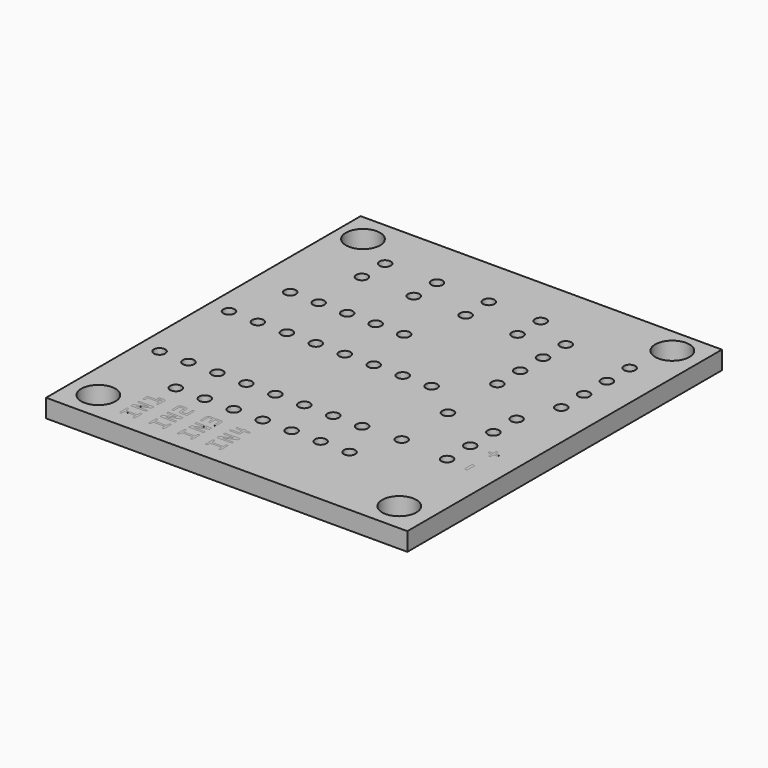
from build123d import *

# Parameters (mm, degrees)
SKETCH_W     = 31.7
SKETCH_H     = 34.5
SKETCH_R     = 1.5
PAD_DEPTH    = 1.6
SKETCH001_R  = 0.5
POCKET_DEPTH = 2
PAD003_DEPTH = 0.0001


with BuildPart() as part:
    # Sketch → Pad (new body)
    with BuildSketch(Plane.XY):
        Rectangle(SKETCH_W, SKETCH_H)
        with Locations((13.1, -14.7)):
            Circle(SKETCH_R, mode=Mode.SUBTRACT)
        with Locations((-13.3, -14.7)):
            Circle(SKETCH_R, mode=Mode.SUBTRACT)
        with Locations((-13.6, 14.7)):
            Circle(SKETCH_R, mode=Mode.SUBTRACT)
        with Locations((13.3, 15)):
            Circle(SKETCH_R, mode=Mode.SUBTRACT)
    extrude(amount=-PAD_DEPTH)

    # Sketch001 → Pocket (cut)
    with BuildSketch(Plane.XY):
        with Locations((-12.564826, 5.420532)):
            Circle(SKETCH001_R)
        with Locations((-10.064826, 5.420532)):
            Circle(SKETCH001_R)
        with Locations((-7.564826, 5.420532)):
            Circle(SKETCH001_R)
        with Locations((-5.064826, 5.420532)):
            Circle(SKETCH001_R)
        with Locations((-2.564826, 5.420532)):
            Circle(SKETCH001_R)
        with Locations((-10.142829, 10.25995)):
            Circle(SKETCH001_R)
        with Locations((-10.142829, 12.79995)):
            Circle(SKETCH001_R)
        with Locations((-5.592829, 12.79995)):
            Circle(SKETCH001_R)
        with Locations((-5.592829, 10.25995)):
            Circle(SKETCH001_R)
        with Locations((-1.042829, 10.25995)):
            Circle(SKETCH001_R)
        with Locations((-1.042829, 12.79995)):
            Circle(SKETCH001_R)
        with Locations((3.507171, 12.79995)):
            Circle(SKETCH001_R)
        with Locations((3.507171, 10.25995)):
            Circle(SKETCH001_R)
        with Locations((7.02339, 11.161276)):
            Circle(SKETCH001_R)
        with Locations((12.62339, 11.161276)):
            Circle(SKETCH001_R)
        with Locations((7.02339, 8.661276)):
            Circle(SKETCH001_R)
        with Locations((12.62339, 8.661276)):
            Circle(SKETCH001_R)
        with Locations((7.02339, 6.161276)):
            Circle(SKETCH001_R)
        with Locations((12.62339, 6.161276)):
            Circle(SKETCH001_R)
        with Locations((12.62339, 3.661276)):
            Circle(SKETCH001_R)
        with Locations((7.02339, 3.661276)):
            Circle(SKETCH001_R)
        with Locations((-9.810193, -10.566936)):
            Circle(SKETCH001_R)
        with Locations((-7.270193, -10.566936)):
            Circle(SKETCH001_R)
        with Locations((-4.730193, -10.566936)):
            Circle(SKETCH001_R)
        with Locations((-2.190193, -10.566936)):
            Circle(SKETCH001_R)
        with Locations((-14.068178, 0.58561)):
            Circle(SKETCH001_R)
        with Locations((-11.528178, 0.58561)):
            Circle(SKETCH001_R)
        with Locations((-8.988178, 0.58561)):
            Circle(SKETCH001_R)
        with Locations((-6.448178, 0.58561)):
            Circle(SKETCH001_R)
        with Locations((-3.908178, 0.58561)):
            Circle(SKETCH001_R)
        with Locations((-1.368178, 0.58561)):
            Circle(SKETCH001_R)
        with Locations((1.171822, 0.58561)):
            Circle(SKETCH001_R)
        with Locations((3.711822, 0.58561)):
            Circle(SKETCH001_R)
        with Locations((-14.068178, -7.03439)):
            Circle(SKETCH001_R)
        with Locations((-11.528178, -7.03439)):
            Circle(SKETCH001_R)
        with Locations((-8.988178, -7.03439)):
            Circle(SKETCH001_R)
        with Locations((-6.448178, -7.03439)):
            Circle(SKETCH001_R)
        with Locations((-3.908178, -7.03439)):
            Circle(SKETCH001_R)
        with Locations((-1.368178, -7.03439)):
            Circle(SKETCH001_R)
        with Locations((1.171822, -7.03439)):
            Circle(SKETCH001_R)
        with Locations((3.711822, -7.03439)):
            Circle(SKETCH001_R)
        with Locations((11.296953, 0.417566)):
            Circle(SKETCH001_R)
        with Locations((11.296953, -2.122434)):
            Circle(SKETCH001_R)
        with Locations((11.296953, -4.662434)):
            Circle(SKETCH001_R)
        with Locations((11.296953, -7.202434)):
            Circle(SKETCH001_R)
        with Locations((7.055358, -1.802605)):
            Circle(SKETCH001_R)
        with Locations((7.055358, -6.882605)):
            Circle(SKETCH001_R)
        with Locations((0.349807, -10.566936)):
            Circle(SKETCH001_R)
        with Locations((2.889807, -10.566936)):
            Circle(SKETCH001_R)
        with Locations((5.429807, -10.566936)):
            Circle(SKETCH001_R)
    extrude(amount=-POCKET_DEPTH, mode=Mode.SUBTRACT)

    # Sketch006 (on Face4 of Pocket) → Pad003 (join)
    with BuildSketch(Plane(origin=(-0.5, -0.7, 0), x_dir=(0, -1, 0), z_dir=(0, 0, 1))):
        with BuildLine():
            add(Edge.make_bspline(
                [(15.131942, -8.805441), (15.131942, -8.8401), (15.10751, -8.865668)],
                knots=[0, 0, 0, 1, 1, 1], degree=2))
            add(Edge.make_bspline(
                [(15.10751, -8.865668), (15.083078, -8.891805), (15.047851, -8.891805)],
                knots=[0, 0, 0, 1, 1, 1], degree=2))
            Line((15.047851, -8.891805), (14.798987, -8.891805))
            Line((14.798987, -8.891805), (14.798987, -9.888396))
            Line((14.798987, -9.888396), (15.047851, -9.888396))
            add(Edge.make_bspline(
                [(15.047851, -9.888396), (15.083078, -9.888396), (15.10751, -9.913964)],
                knots=[0, 0, 0, 1, 1, 1], degree=2))
            add(Edge.make_bspline(
                [(15.10751, -9.913964), (15.131942, -9.9401), (15.131942, -9.976464)],
                knots=[0, 0, 0, 1, 1, 1], degree=2))
            add(Edge.make_bspline(
                [(15.131942, -9.976464), (15.131942, -10.011123), (15.106942, -10.036691)],
                knots=[0, 0, 0, 1, 1, 1], degree=2))
            add(Edge.make_bspline(
                [(15.106942, -10.036691), (15.081374, -10.062828), (15.043874, -10.062828)],
                knots=[0, 0, 0, 1, 1, 1], degree=2))
            Line((15.043874, -10.062828), (14.348987, -10.062828))
            add(Edge.make_bspline(
                [(14.348987, -10.062828), (14.311487, -10.062828), (14.285351, -10.036691)],
                knots=[0, 0, 0, 1, 1, 1], degree=2))
            add(Edge.make_bspline(
                [(14.285351, -10.036691), (14.259215, -10.011123), (14.259215, -9.976464)],
                knots=[0, 0, 0, 1, 1, 1], degree=2))
            add(Edge.make_bspline(
                [(14.259215, -9.976464), (14.259215, -9.9401), (14.286487, -9.913964)],
                knots=[0, 0, 0, 1, 1, 1], degree=2))
            add(Edge.make_bspline(
                [(14.286487, -9.913964), (14.31376, -9.888396), (14.352396, -9.888396)],
                knots=[0, 0, 0, 1, 1, 1], degree=2))
            Line((14.352396, -9.888396), (14.622851, -9.888396))
            Line((14.622851, -9.888396), (14.622851, -8.891805))
            Line((14.622851, -8.891805), (14.352396, -8.891805))
            add(Edge.make_bspline(
                [(14.352396, -8.891805), (14.31376, -8.891805), (14.286487, -8.865668)],
                knots=[0, 0, 0, 1, 1, 1], degree=2))
            add(Edge.make_bspline(
                [(14.286487, -8.865668), (14.259215, -8.8401), (14.259215, -8.805441)],
                knots=[0, 0, 0, 1, 1, 1], degree=2))
            add(Edge.make_bspline(
                [(14.259215, -8.805441), (14.259215, -8.769078), (14.285351, -8.742941)],
                knots=[0, 0, 0, 1, 1, 1], degree=2))
            add(Edge.make_bspline(
                [(14.285351, -8.742941), (14.311487, -8.717373), (14.348987, -8.717373)],
                knots=[0, 0, 0, 1, 1, 1], degree=2))
            Line((14.348987, -8.717373), (15.043874, -8.717373))
            add(Edge.make_bspline(
                [(15.043874, -8.717373), (15.081374, -8.717373), (15.106942, -8.742941)],
                knots=[0, 0, 0, 1, 1, 1], degree=2))
            add(Edge.make_bspline(
                [(15.106942, -8.742941), (15.131942, -8.769078), (15.131942, -8.805441)],
                knots=[0, 0, 0, 1, 1, 1], degree=2))
        make_face()
        with BuildLine():
            Line((13.859215, -8.805441), (13.859215, -10.062828))
            Line((13.859215, -10.062828), (13.627396, -10.062828))
            Line((13.627396, -10.062828), (13.168305, -9.024191))
            Line((13.168305, -9.024191), (13.168305, -9.976464))
            add(Edge.make_bspline(
                [(13.168305, -9.976464), (13.168305, -10.011123), (13.143305, -10.036691)],
                knots=[0, 0, 0, 1, 1, 1], degree=2))
            add(Edge.make_bspline(
                [(13.143305, -10.036691), (13.117737, -10.062828), (13.081374, -10.062828)],
                knots=[0, 0, 0, 1, 1, 1], degree=2))
            add(Edge.make_bspline(
                [(13.081374, -10.062828), (13.044442, -10.062828), (13.018305, -10.036691)],
                knots=[0, 0, 0, 1, 1, 1], degree=2))
            add(Edge.make_bspline(
                [(13.018305, -10.036691), (12.992169, -10.011123), (12.992169, -9.976464)],
                knots=[0, 0, 0, 1, 1, 1], degree=2))
            Line((12.992169, -9.976464), (12.992169, -8.717373))
            Line((12.992169, -8.717373), (13.225692, -8.717373))
            Line((13.225692, -8.717373), (13.683078, -9.7526))
            Line((13.683078, -9.7526), (13.683078, -8.805441))
            add(Edge.make_bspline(
                [(13.683078, -8.805441), (13.683078, -8.769078), (13.709215, -8.742941)],
                knots=[0, 0, 0, 1, 1, 1], degree=2))
            add(Edge.make_bspline(
                [(13.709215, -8.742941), (13.735351, -8.717373), (13.772283, -8.717373)],
                knots=[0, 0, 0, 1, 1, 1], degree=2))
            add(Edge.make_bspline(
                [(13.772283, -8.717373), (13.808646, -8.717373), (13.834215, -8.742941)],
                knots=[0, 0, 0, 1, 1, 1], degree=2))
            add(Edge.make_bspline(
                [(13.834215, -8.742941), (13.859215, -8.769078), (13.859215, -8.805441)],
                knots=[0, 0, 0, 1, 1, 1], degree=2))
        make_face()
        with BuildLine():
            add(Edge.make_bspline(
                [(12.568305, -8.805441), (12.568305, -8.8401), (12.543305, -8.865668)],
                knots=[0, 0, 0, 1, 1, 1], degree=2))
            add(Edge.make_bspline(
                [(12.543305, -8.865668), (12.517737, -8.891805), (12.480805, -8.891805)],
                knots=[0, 0, 0, 1, 1, 1], degree=2))
            Line((12.480805, -8.891805), (12.222851, -8.891805))
            Line((12.222851, -8.891805), (12.222851, -9.888396))
            Line((12.222851, -9.888396), (12.480805, -9.888396))
            add(Edge.make_bspline(
                [(12.480805, -9.888396), (12.517737, -9.888396), (12.543305, -9.913964)],
                knots=[0, 0, 0, 1, 1, 1], degree=2))
            add(Edge.make_bspline(
                [(12.543305, -9.913964), (12.568305, -9.9401), (12.568305, -9.976464)],
                knots=[0, 0, 0, 1, 1, 1], degree=2))
            add(Edge.make_bspline(
                [(12.568305, -9.976464), (12.568305, -10.011123), (12.543305, -10.036691)],
                knots=[0, 0, 0, 1, 1, 1], degree=2))
            add(Edge.make_bspline(
                [(12.543305, -10.036691), (12.517737, -10.062828), (12.480805, -10.062828)],
                knots=[0, 0, 0, 1, 1, 1], degree=2))
            Line((12.480805, -10.062828), (12.046715, -10.062828))
            Line((12.046715, -10.062828), (12.046715, -8.891805))
            Line((12.046715, -8.891805), (11.889896, -8.891805))
            Line((11.889896, -8.891805), (11.889896, -9.243509))
            add(Edge.make_bspline(
                [(11.889896, -9.243509), (11.889896, -9.279873), (11.864896, -9.305441)],
                knots=[0, 0, 0, 1, 1, 1], degree=2))
            add(Edge.make_bspline(
                [(11.864896, -9.305441), (11.839328, -9.331578), (11.802965, -9.331578)],
                knots=[0, 0, 0, 1, 1, 1], degree=2))
            add(Edge.make_bspline(
                [(11.802965, -9.331578), (11.766033, -9.331578), (11.739896, -9.305441)],
                knots=[0, 0, 0, 1, 1, 1], degree=2))
            add(Edge.make_bspline(
                [(11.739896, -9.305441), (11.71376, -9.279873), (11.71376, -9.243509)],
                knots=[0, 0, 0, 1, 1, 1], degree=2))
            Line((11.71376, -9.243509), (11.71376, -8.805441))
            add(Edge.make_bspline(
                [(11.71376, -8.805441), (11.71376, -8.769078), (11.739328, -8.742941)],
                knots=[0, 0, 0, 1, 1, 1], degree=2))
            add(Edge.make_bspline(
                [(11.739328, -8.742941), (11.764896, -8.717373), (11.80126, -8.717373)],
                knots=[0, 0, 0, 1, 1, 1], degree=2))
            Line((11.80126, -8.717373), (12.48251, -8.717373))
            add(Edge.make_bspline(
                [(12.48251, -8.717373), (12.518874, -8.717373), (12.543874, -8.742941)],
                knots=[0, 0, 0, 1, 1, 1], degree=2))
            add(Edge.make_bspline(
                [(12.543874, -8.742941), (12.568305, -8.769078), (12.568305, -8.805441)],
                knots=[0, 0, 0, 1, 1, 1], degree=2))
        make_face()
        with BuildLine():
            add(Edge.make_bspline(
                [(15.131942, -6.255441), (15.131942, -6.2901), (15.10751, -6.315668)],
                knots=[0, 0, 0, 1, 1, 1], degree=2))
            add(Edge.make_bspline(
                [(15.10751, -6.315668), (15.083078, -6.341805), (15.047851, -6.341805)],
                knots=[0, 0, 0, 1, 1, 1], degree=2))
            Line((15.047851, -6.341805), (14.798987, -6.341805))
            Line((14.798987, -6.341805), (14.798987, -7.338396))
            Line((14.798987, -7.338396), (15.047851, -7.338396))
            add(Edge.make_bspline(
                [(15.047851, -7.338396), (15.083078, -7.338396), (15.10751, -7.363964)],
                knots=[0, 0, 0, 1, 1, 1], degree=2))
            add(Edge.make_bspline(
                [(15.10751, -7.363964), (15.131942, -7.3901), (15.131942, -7.426464)],
                knots=[0, 0, 0, 1, 1, 1], degree=2))
            add(Edge.make_bspline(
                [(15.131942, -7.426464), (15.131942, -7.461123), (15.106942, -7.486691)],
                knots=[0, 0, 0, 1, 1, 1], degree=2))
            add(Edge.make_bspline(
                [(15.106942, -7.486691), (15.081374, -7.512828), (15.043874, -7.512828)],
                knots=[0, 0, 0, 1, 1, 1], degree=2))
            Line((15.043874, -7.512828), (14.348987, -7.512828))
            add(Edge.make_bspline(
                [(14.348987, -7.512828), (14.311487, -7.512828), (14.285351, -7.486691)],
                knots=[0, 0, 0, 1, 1, 1], degree=2))
            add(Edge.make_bspline(
                [(14.285351, -7.486691), (14.259215, -7.461123), (14.259215, -7.426464)],
                knots=[0, 0, 0, 1, 1, 1], degree=2))
            add(Edge.make_bspline(
                [(14.259215, -7.426464), (14.259215, -7.3901), (14.286487, -7.363964)],
                knots=[0, 0, 0, 1, 1, 1], degree=2))
            add(Edge.make_bspline(
                [(14.286487, -7.363964), (14.31376, -7.338396), (14.352396, -7.338396)],
                knots=[0, 0, 0, 1, 1, 1], degree=2))
            Line((14.352396, -7.338396), (14.622851, -7.338396))
            Line((14.622851, -7.338396), (14.622851, -6.341805))
            Line((14.622851, -6.341805), (14.352396, -6.341805))
            add(Edge.make_bspline(
                [(14.352396, -6.341805), (14.31376, -6.341805), (14.286487, -6.315668)],
                knots=[0, 0, 0, 1, 1, 1], degree=2))
            add(Edge.make_bspline(
                [(14.286487, -6.315668), (14.259215, -6.2901), (14.259215, -6.255441)],
                knots=[0, 0, 0, 1, 1, 1], degree=2))
            add(Edge.make_bspline(
                [(14.259215, -6.255441), (14.259215, -6.219078), (14.285351, -6.192941)],
                knots=[0, 0, 0, 1, 1, 1], degree=2))
            add(Edge.make_bspline(
                [(14.285351, -6.192941), (14.311487, -6.167373), (14.348987, -6.167373)],
                knots=[0, 0, 0, 1, 1, 1], degree=2))
            Line((14.348987, -6.167373), (15.043874, -6.167373))
            add(Edge.make_bspline(
                [(15.043874, -6.167373), (15.081374, -6.167373), (15.106942, -6.192941)],
                knots=[0, 0, 0, 1, 1, 1], degree=2))
            add(Edge.make_bspline(
                [(15.106942, -6.192941), (15.131942, -6.219078), (15.131942, -6.255441)],
                knots=[0, 0, 0, 1, 1, 1], degree=2))
        make_face()
        with BuildLine():
            Line((13.859215, -6.255441), (13.859215, -7.512828))
            Line((13.859215, -7.512828), (13.627396, -7.512828))
            Line((13.627396, -7.512828), (13.168305, -6.474191))
            Line((13.168305, -6.474191), (13.168305, -7.426464))
            add(Edge.make_bspline(
                [(13.168305, -7.426464), (13.168305, -7.461123), (13.143305, -7.486691)],
                knots=[0, 0, 0, 1, 1, 1], degree=2))
            add(Edge.make_bspline(
                [(13.143305, -7.486691), (13.117737, -7.512828), (13.081374, -7.512828)],
                knots=[0, 0, 0, 1, 1, 1], degree=2))
            add(Edge.make_bspline(
                [(13.081374, -7.512828), (13.044442, -7.512828), (13.018305, -7.486691)],
                knots=[0, 0, 0, 1, 1, 1], degree=2))
            add(Edge.make_bspline(
                [(13.018305, -7.486691), (12.992169, -7.461123), (12.992169, -7.426464)],
                knots=[0, 0, 0, 1, 1, 1], degree=2))
            Line((12.992169, -7.426464), (12.992169, -6.167373))
            Line((12.992169, -6.167373), (13.225692, -6.167373))
            Line((13.225692, -6.167373), (13.683078, -7.2026))
            Line((13.683078, -7.2026), (13.683078, -6.255441))
            add(Edge.make_bspline(
                [(13.683078, -6.255441), (13.683078, -6.219078), (13.709215, -6.192941)],
                knots=[0, 0, 0, 1, 1, 1], degree=2))
            add(Edge.make_bspline(
                [(13.709215, -6.192941), (13.735351, -6.167373), (13.772283, -6.167373)],
                knots=[0, 0, 0, 1, 1, 1], degree=2))
            add(Edge.make_bspline(
                [(13.772283, -6.167373), (13.808646, -6.167373), (13.834215, -6.192941)],
                knots=[0, 0, 0, 1, 1, 1], degree=2))
            add(Edge.make_bspline(
                [(13.834215, -6.192941), (13.859215, -6.219078), (13.859215, -6.255441)],
                knots=[0, 0, 0, 1, 1, 1], degree=2))
        make_face()
        with BuildLine():
            Line((12.586487, -6.167373), (12.586487, -6.757146))
            add(Edge.make_bspline(
                [(12.586487, -6.757146), (12.586487, -6.828168), (12.534783, -6.879305)],
                knots=[0, 0, 0, 1, 1, 1], degree=2))
            add(Edge.make_bspline(
                [(12.534783, -6.879305), (12.48251, -6.931009), (12.410919, -6.931009)],
                knots=[0, 0, 0, 1, 1, 1], degree=2))
            Line((12.410919, -6.931009), (11.895578, -6.931009))
            Line((11.895578, -6.931009), (11.895578, -7.338396))
            Line((11.895578, -7.338396), (12.499555, -7.338396))
            add(Edge.make_bspline(
                [(12.499555, -7.338396), (12.535919, -7.338396), (12.561487, -7.363964)],
                knots=[0, 0, 0, 1, 1, 1], degree=2))
            add(Edge.make_bspline(
                [(12.561487, -7.363964), (12.586487, -7.3901), (12.586487, -7.426464)],
                knots=[0, 0, 0, 1, 1, 1], degree=2))
            add(Edge.make_bspline(
                [(12.586487, -7.426464), (12.586487, -7.461123), (12.561487, -7.486691)],
                knots=[0, 0, 0, 1, 1, 1], degree=2))
            add(Edge.make_bspline(
                [(12.561487, -7.486691), (12.535919, -7.512828), (12.498987, -7.512828)],
                knots=[0, 0, 0, 1, 1, 1], degree=2))
            Line((12.498987, -7.512828), (11.89501, -7.512828))
            add(Edge.make_bspline(
                [(11.89501, -7.512828), (11.825692, -7.512828), (11.772851, -7.461123)],
                knots=[0, 0, 0, 1, 1, 1], degree=2))
            add(Edge.make_bspline(
                [(11.772851, -7.461123), (11.719442, -7.409418), (11.719442, -7.339532)],
                knots=[0, 0, 0, 1, 1, 1], degree=2))
            Line((11.719442, -7.339532), (11.719442, -6.928737))
            add(Edge.make_bspline(
                [(11.719442, -6.928737), (11.719442, -6.859987), (11.771715, -6.808282)],
                knots=[0, 0, 0, 1, 1, 1], degree=2))
            add(Edge.make_bspline(
                [(11.771715, -6.808282), (11.823419, -6.756578), (11.89501, -6.756578)],
                knots=[0, 0, 0, 1, 1, 1], degree=2))
            Line((11.89501, -6.756578), (12.410351, -6.756578))
            Line((12.410351, -6.756578), (12.410351, -6.341805))
            Line((12.410351, -6.341805), (11.808078, -6.341805))
            add(Edge.make_bspline(
                [(11.808078, -6.341805), (11.771715, -6.341805), (11.745578, -6.315668)],
                knots=[0, 0, 0, 1, 1, 1], degree=2))
            add(Edge.make_bspline(
                [(11.745578, -6.315668), (11.719442, -6.2901), (11.719442, -6.255441)],
                knots=[0, 0, 0, 1, 1, 1], degree=2))
            add(Edge.make_bspline(
                [(11.719442, -6.255441), (11.719442, -6.219078), (11.745578, -6.192941)],
                knots=[0, 0, 0, 1, 1, 1], degree=2))
            add(Edge.make_bspline(
                [(11.745578, -6.192941), (11.771715, -6.167373), (11.808646, -6.167373)],
                knots=[0, 0, 0, 1, 1, 1], degree=2))
            Line((11.808646, -6.167373), (12.586487, -6.167373))
        make_face()
        with BuildLine():
            add(Edge.make_bspline(
                [(15.131942, -1.265441), (15.131942, -1.3001), (15.10751, -1.325668)],
                knots=[0, 0, 0, 1, 1, 1], degree=2))
            add(Edge.make_bspline(
                [(15.10751, -1.325668), (15.083078, -1.351805), (15.047851, -1.351805)],
                knots=[0, 0, 0, 1, 1, 1], degree=2))
            Line((15.047851, -1.351805), (14.798987, -1.351805))
            Line((14.798987, -1.351805), (14.798987, -2.348396))
            Line((14.798987, -2.348396), (15.047851, -2.348396))
            add(Edge.make_bspline(
                [(15.047851, -2.348396), (15.083078, -2.348396), (15.10751, -2.373964)],
                knots=[0, 0, 0, 1, 1, 1], degree=2))
            add(Edge.make_bspline(
                [(15.10751, -2.373964), (15.131942, -2.4001), (15.131942, -2.436464)],
                knots=[0, 0, 0, 1, 1, 1], degree=2))
            add(Edge.make_bspline(
                [(15.131942, -2.436464), (15.131942, -2.471123), (15.106942, -2.496691)],
                knots=[0, 0, 0, 1, 1, 1], degree=2))
            add(Edge.make_bspline(
                [(15.106942, -2.496691), (15.081374, -2.522828), (15.043874, -2.522828)],
                knots=[0, 0, 0, 1, 1, 1], degree=2))
            Line((15.043874, -2.522828), (14.348987, -2.522828))
            add(Edge.make_bspline(
                [(14.348987, -2.522828), (14.311487, -2.522828), (14.285351, -2.496691)],
                knots=[0, 0, 0, 1, 1, 1], degree=2))
            add(Edge.make_bspline(
                [(14.285351, -2.496691), (14.259215, -2.471123), (14.259215, -2.436464)],
                knots=[0, 0, 0, 1, 1, 1], degree=2))
            add(Edge.make_bspline(
                [(14.259215, -2.436464), (14.259215, -2.4001), (14.286487, -2.373964)],
                knots=[0, 0, 0, 1, 1, 1], degree=2))
            add(Edge.make_bspline(
                [(14.286487, -2.373964), (14.31376, -2.348396), (14.352396, -2.348396)],
                knots=[0, 0, 0, 1, 1, 1], degree=2))
            Line((14.352396, -2.348396), (14.622851, -2.348396))
            Line((14.622851, -2.348396), (14.622851, -1.351805))
            Line((14.622851, -1.351805), (14.352396, -1.351805))
            add(Edge.make_bspline(
                [(14.352396, -1.351805), (14.31376, -1.351805), (14.286487, -1.325668)],
                knots=[0, 0, 0, 1, 1, 1], degree=2))
            add(Edge.make_bspline(
                [(14.286487, -1.325668), (14.259215, -1.3001), (14.259215, -1.265441)],
                knots=[0, 0, 0, 1, 1, 1], degree=2))
            add(Edge.make_bspline(
                [(14.259215, -1.265441), (14.259215, -1.229078), (14.285351, -1.202941)],
                knots=[0, 0, 0, 1, 1, 1], degree=2))
            add(Edge.make_bspline(
                [(14.285351, -1.202941), (14.311487, -1.177373), (14.348987, -1.177373)],
                knots=[0, 0, 0, 1, 1, 1], degree=2))
            Line((14.348987, -1.177373), (15.043874, -1.177373))
            add(Edge.make_bspline(
                [(15.043874, -1.177373), (15.081374, -1.177373), (15.106942, -1.202941)],
                knots=[0, 0, 0, 1, 1, 1], degree=2))
            add(Edge.make_bspline(
                [(15.106942, -1.202941), (15.131942, -1.229078), (15.131942, -1.265441)],
                knots=[0, 0, 0, 1, 1, 1], degree=2))
        make_face()
        with BuildLine():
            Line((13.859215, -1.265441), (13.859215, -2.522828))
            Line((13.859215, -2.522828), (13.627396, -2.522828))
            Line((13.627396, -2.522828), (13.168305, -1.484191))
            Line((13.168305, -1.484191), (13.168305, -2.436464))
            add(Edge.make_bspline(
                [(13.168305, -2.436464), (13.168305, -2.471123), (13.143305, -2.496691)],
                knots=[0, 0, 0, 1, 1, 1], degree=2))
            add(Edge.make_bspline(
                [(13.143305, -2.496691), (13.117737, -2.522828), (13.081374, -2.522828)],
                knots=[0, 0, 0, 1, 1, 1], degree=2))
            add(Edge.make_bspline(
                [(13.081374, -2.522828), (13.044442, -2.522828), (13.018305, -2.496691)],
                knots=[0, 0, 0, 1, 1, 1], degree=2))
            add(Edge.make_bspline(
                [(13.018305, -2.496691), (12.992169, -2.471123), (12.992169, -2.436464)],
                knots=[0, 0, 0, 1, 1, 1], degree=2))
            Line((12.992169, -2.436464), (12.992169, -1.177373))
            Line((12.992169, -1.177373), (13.225692, -1.177373))
            Line((13.225692, -1.177373), (13.683078, -2.2126))
            Line((13.683078, -2.2126), (13.683078, -1.265441))
            add(Edge.make_bspline(
                [(13.683078, -1.265441), (13.683078, -1.229078), (13.709215, -1.202941)],
                knots=[0, 0, 0, 1, 1, 1], degree=2))
            add(Edge.make_bspline(
                [(13.709215, -1.202941), (13.735351, -1.177373), (13.772283, -1.177373)],
                knots=[0, 0, 0, 1, 1, 1], degree=2))
            add(Edge.make_bspline(
                [(13.772283, -1.177373), (13.808646, -1.177373), (13.834215, -1.202941)],
                knots=[0, 0, 0, 1, 1, 1], degree=2))
            add(Edge.make_bspline(
                [(13.834215, -1.202941), (13.859215, -1.229078), (13.859215, -1.265441)],
                knots=[0, 0, 0, 1, 1, 1], degree=2))
        make_face()
        with BuildLine():
            Line((12.51376, -1.621123), (12.51376, -2.437032))
            add(Edge.make_bspline(
                [(12.51376, -2.437032), (12.51376, -2.471691), (12.487624, -2.497259)],
                knots=[0, 0, 0, 1, 1, 1], degree=2))
            add(Edge.make_bspline(
                [(12.487624, -2.497259), (12.461487, -2.522828), (12.425124, -2.522828)],
                knots=[0, 0, 0, 1, 1, 1], degree=2))
            add(Edge.make_bspline(
                [(12.425124, -2.522828), (12.388192, -2.522828), (12.363192, -2.497259)],
                knots=[0, 0, 0, 1, 1, 1], degree=2))
            add(Edge.make_bspline(
                [(12.363192, -2.497259), (12.337624, -2.471691), (12.337624, -2.437032)],
                knots=[0, 0, 0, 1, 1, 1], degree=2))
            Line((12.337624, -2.437032), (12.337624, -1.795555))
            Line((12.337624, -1.795555), (11.998987, -1.795555))
            Line((11.998987, -1.795555), (11.998987, -2.291578))
            add(Edge.make_bspline(
                [(11.998987, -2.291578), (11.998987, -2.327941), (11.972851, -2.352373)],
                knots=[0, 0, 0, 1, 1, 1], degree=2))
            add(Edge.make_bspline(
                [(11.972851, -2.352373), (11.946715, -2.377373), (11.910351, -2.377373)],
                knots=[0, 0, 0, 1, 1, 1], degree=2))
            add(Edge.make_bspline(
                [(11.910351, -2.377373), (11.875692, -2.377373), (11.849555, -2.352373)],
                knots=[0, 0, 0, 1, 1, 1], degree=2))
            add(Edge.make_bspline(
                [(11.849555, -2.352373), (11.822851, -2.327941), (11.822851, -2.291578)],
                knots=[0, 0, 0, 1, 1, 1], degree=2))
            Line((11.822851, -2.291578), (11.822851, -1.795555))
            add(Edge.make_bspline(
                [(11.822851, -1.795555), (11.784783, -1.795555), (11.758646, -1.769418)],
                knots=[0, 0, 0, 1, 1, 1], degree=2))
            add(Edge.make_bspline(
                [(11.758646, -1.769418), (11.731942, -1.74385), (11.731942, -1.707487)],
                knots=[0, 0, 0, 1, 1, 1], degree=2))
            add(Edge.make_bspline(
                [(11.731942, -1.707487), (11.731942, -1.671123), (11.758646, -1.646123)],
                knots=[0, 0, 0, 1, 1, 1], degree=2))
            add(Edge.make_bspline(
                [(11.758646, -1.646123), (11.784783, -1.621123), (11.822851, -1.621123)],
                knots=[0, 0, 0, 1, 1, 1], degree=2))
            Line((11.822851, -1.621123), (11.822851, -1.266009))
            add(Edge.make_bspline(
                [(11.822851, -1.266009), (11.822851, -1.229646), (11.849555, -1.203509)],
                knots=[0, 0, 0, 1, 1, 1], degree=2))
            add(Edge.make_bspline(
                [(11.849555, -1.203509), (11.875692, -1.177373), (11.910351, -1.177373)],
                knots=[0, 0, 0, 1, 1, 1], degree=2))
            add(Edge.make_bspline(
                [(11.910351, -1.177373), (11.946715, -1.177373), (11.972851, -1.203509)],
                knots=[0, 0, 0, 1, 1, 1], degree=2))
            add(Edge.make_bspline(
                [(11.972851, -1.203509), (11.998987, -1.229646), (11.998987, -1.266009)],
                knots=[0, 0, 0, 1, 1, 1], degree=2))
            Line((11.998987, -1.266009), (11.998987, -1.621123))
            Line((11.998987, -1.621123), (12.51376, -1.621123))
        make_face()
        with BuildLine():
            add(Edge.make_bspline(
                [(15.131942, -3.755441), (15.131942, -3.7901), (15.10751, -3.815668)],
                knots=[0, 0, 0, 1, 1, 1], degree=2))
            add(Edge.make_bspline(
                [(15.10751, -3.815668), (15.083078, -3.841805), (15.047851, -3.841805)],
                knots=[0, 0, 0, 1, 1, 1], degree=2))
            Line((15.047851, -3.841805), (14.798987, -3.841805))
            Line((14.798987, -3.841805), (14.798987, -4.838396))
            Line((14.798987, -4.838396), (15.047851, -4.838396))
            add(Edge.make_bspline(
                [(15.047851, -4.838396), (15.083078, -4.838396), (15.10751, -4.863964)],
                knots=[0, 0, 0, 1, 1, 1], degree=2))
            add(Edge.make_bspline(
                [(15.10751, -4.863964), (15.131942, -4.8901), (15.131942, -4.926464)],
                knots=[0, 0, 0, 1, 1, 1], degree=2))
            add(Edge.make_bspline(
                [(15.131942, -4.926464), (15.131942, -4.961123), (15.106942, -4.986691)],
                knots=[0, 0, 0, 1, 1, 1], degree=2))
            add(Edge.make_bspline(
                [(15.106942, -4.986691), (15.081374, -5.012828), (15.043874, -5.012828)],
                knots=[0, 0, 0, 1, 1, 1], degree=2))
            Line((15.043874, -5.012828), (14.348987, -5.012828))
            add(Edge.make_bspline(
                [(14.348987, -5.012828), (14.311487, -5.012828), (14.285351, -4.986691)],
                knots=[0, 0, 0, 1, 1, 1], degree=2))
            add(Edge.make_bspline(
                [(14.285351, -4.986691), (14.259215, -4.961123), (14.259215, -4.926464)],
                knots=[0, 0, 0, 1, 1, 1], degree=2))
            add(Edge.make_bspline(
                [(14.259215, -4.926464), (14.259215, -4.8901), (14.286487, -4.863964)],
                knots=[0, 0, 0, 1, 1, 1], degree=2))
            add(Edge.make_bspline(
                [(14.286487, -4.863964), (14.31376, -4.838396), (14.352396, -4.838396)],
                knots=[0, 0, 0, 1, 1, 1], degree=2))
            Line((14.352396, -4.838396), (14.622851, -4.838396))
            Line((14.622851, -4.838396), (14.622851, -3.841805))
            Line((14.622851, -3.841805), (14.352396, -3.841805))
            add(Edge.make_bspline(
                [(14.352396, -3.841805), (14.31376, -3.841805), (14.286487, -3.815668)],
                knots=[0, 0, 0, 1, 1, 1], degree=2))
            add(Edge.make_bspline(
                [(14.286487, -3.815668), (14.259215, -3.7901), (14.259215, -3.755441)],
                knots=[0, 0, 0, 1, 1, 1], degree=2))
            add(Edge.make_bspline(
                [(14.259215, -3.755441), (14.259215, -3.719078), (14.285351, -3.692941)],
                knots=[0, 0, 0, 1, 1, 1], degree=2))
            add(Edge.make_bspline(
                [(14.285351, -3.692941), (14.311487, -3.667373), (14.348987, -3.667373)],
                knots=[0, 0, 0, 1, 1, 1], degree=2))
            Line((14.348987, -3.667373), (15.043874, -3.667373))
            add(Edge.make_bspline(
                [(15.043874, -3.667373), (15.081374, -3.667373), (15.106942, -3.692941)],
                knots=[0, 0, 0, 1, 1, 1], degree=2))
            add(Edge.make_bspline(
                [(15.106942, -3.692941), (15.131942, -3.719078), (15.131942, -3.755441)],
                knots=[0, 0, 0, 1, 1, 1], degree=2))
        make_face()
        with BuildLine():
            Line((13.859215, -3.755441), (13.859215, -5.012828))
            Line((13.859215, -5.012828), (13.627396, -5.012828))
            Line((13.627396, -5.012828), (13.168305, -3.974191))
            Line((13.168305, -3.974191), (13.168305, -4.926464))
            add(Edge.make_bspline(
                [(13.168305, -4.926464), (13.168305, -4.961123), (13.143305, -4.986691)],
                knots=[0, 0, 0, 1, 1, 1], degree=2))
            add(Edge.make_bspline(
                [(13.143305, -4.986691), (13.117737, -5.012828), (13.081374, -5.012828)],
                knots=[0, 0, 0, 1, 1, 1], degree=2))
            add(Edge.make_bspline(
                [(13.081374, -5.012828), (13.044442, -5.012828), (13.018305, -4.986691)],
                knots=[0, 0, 0, 1, 1, 1], degree=2))
            add(Edge.make_bspline(
                [(13.018305, -4.986691), (12.992169, -4.961123), (12.992169, -4.926464)],
                knots=[0, 0, 0, 1, 1, 1], degree=2))
            Line((12.992169, -4.926464), (12.992169, -3.667373))
            Line((12.992169, -3.667373), (13.225692, -3.667373))
            Line((13.225692, -3.667373), (13.683078, -4.7026))
            Line((13.683078, -4.7026), (13.683078, -3.755441))
            add(Edge.make_bspline(
                [(13.683078, -3.755441), (13.683078, -3.719078), (13.709215, -3.692941)],
                knots=[0, 0, 0, 1, 1, 1], degree=2))
            add(Edge.make_bspline(
                [(13.709215, -3.692941), (13.735351, -3.667373), (13.772283, -3.667373)],
                knots=[0, 0, 0, 1, 1, 1], degree=2))
            add(Edge.make_bspline(
                [(13.772283, -3.667373), (13.808646, -3.667373), (13.834215, -3.692941)],
                knots=[0, 0, 0, 1, 1, 1], degree=2))
            add(Edge.make_bspline(
                [(13.834215, -3.692941), (13.859215, -3.719078), (13.859215, -3.755441)],
                knots=[0, 0, 0, 1, 1, 1], degree=2))
        make_face()
        with BuildLine():
            add(Edge.make_bspline(
                [(12.586487, -3.755441), (12.586487, -3.7901), (12.561487, -3.815668)],
                knots=[0, 0, 0, 1, 1, 1], degree=2))
            add(Edge.make_bspline(
                [(12.561487, -3.815668), (12.535919, -3.841805), (12.499555, -3.841805)],
                knots=[0, 0, 0, 1, 1, 1], degree=2))
            Line((12.499555, -3.841805), (11.895578, -3.841805))
            Line((11.895578, -3.841805), (11.895578, -4.167941))
            add(Edge.make_bspline(
                [(11.895578, -4.167941), (11.895578, -4.203168), (11.922851, -4.229873)],
                knots=[0, 0, 0, 1, 1, 1], degree=2))
            add(Edge.make_bspline(
                [(11.922851, -4.229873), (11.950124, -4.256578), (11.984215, -4.256578)],
                knots=[0, 0, 0, 1, 1, 1], degree=2))
            Line((11.984215, -4.256578), (12.327396, -4.256578))
            add(Edge.make_bspline(
                [(12.327396, -4.256578), (12.36376, -4.256578), (12.389328, -4.281578)],
                knots=[0, 0, 0, 1, 1, 1], degree=2))
            add(Edge.make_bspline(
                [(12.389328, -4.281578), (12.414328, -4.307146), (12.414328, -4.342941)],
                knots=[0, 0, 0, 1, 1, 1], degree=2))
            add(Edge.make_bspline(
                [(12.414328, -4.342941), (12.414328, -4.378737), (12.389328, -4.404873)],
                knots=[0, 0, 0, 1, 1, 1], degree=2))
            add(Edge.make_bspline(
                [(12.389328, -4.404873), (12.36376, -4.431009), (12.327396, -4.431009)],
                knots=[0, 0, 0, 1, 1, 1], degree=2))
            Line((12.327396, -4.431009), (11.984215, -4.431009))
            add(Edge.make_bspline(
                [(11.984215, -4.431009), (11.947851, -4.431009), (11.921715, -4.456578)],
                knots=[0, 0, 0, 1, 1, 1], degree=2))
            add(Edge.make_bspline(
                [(11.921715, -4.456578), (11.895578, -4.482146), (11.895578, -4.516805)],
                knots=[0, 0, 0, 1, 1, 1], degree=2))
            Line((11.895578, -4.516805), (11.895578, -4.838396))
            Line((11.895578, -4.838396), (12.499555, -4.838396))
            add(Edge.make_bspline(
                [(12.499555, -4.838396), (12.535919, -4.838396), (12.561487, -4.863964)],
                knots=[0, 0, 0, 1, 1, 1], degree=2))
            add(Edge.make_bspline(
                [(12.561487, -4.863964), (12.586487, -4.8901), (12.586487, -4.926464)],
                knots=[0, 0, 0, 1, 1, 1], degree=2))
            add(Edge.make_bspline(
                [(12.586487, -4.926464), (12.586487, -4.961123), (12.561487, -4.986691)],
                knots=[0, 0, 0, 1, 1, 1], degree=2))
            add(Edge.make_bspline(
                [(12.561487, -4.986691), (12.535919, -5.012828), (12.498987, -5.012828)],
                knots=[0, 0, 0, 1, 1, 1], degree=2))
            Line((12.498987, -5.012828), (11.89501, -5.012828))
            add(Edge.make_bspline(
                [(11.89501, -5.012828), (11.825692, -5.012828), (11.772851, -4.961123)],
                knots=[0, 0, 0, 1, 1, 1], degree=2))
            add(Edge.make_bspline(
                [(11.772851, -4.961123), (11.719442, -4.909418), (11.719442, -4.839532)],
                knots=[0, 0, 0, 1, 1, 1], degree=2))
            Line((11.719442, -4.839532), (11.719442, -4.516805))
            add(Edge.make_bspline(
                [(11.719442, -4.516805), (11.719442, -4.416805), (11.789328, -4.342941)],
                knots=[0, 0, 0, 1, 1, 1], degree=2))
            add(Edge.make_bspline(
                [(11.789328, -4.342941), (11.719442, -4.269078), (11.719442, -4.167941)],
                knots=[0, 0, 0, 1, 1, 1], degree=2))
            Line((11.719442, -4.167941), (11.719442, -3.842373))
            add(Edge.make_bspline(
                [(11.719442, -3.842373), (11.719442, -3.77135), (11.772851, -3.719078)],
                knots=[0, 0, 0, 1, 1, 1], degree=2))
            add(Edge.make_bspline(
                [(11.772851, -3.719078), (11.825692, -3.667373), (11.89501, -3.667373)],
                knots=[0, 0, 0, 1, 1, 1], degree=2))
            Line((11.89501, -3.667373), (12.498987, -3.667373))
            add(Edge.make_bspline(
                [(12.498987, -3.667373), (12.535919, -3.667373), (12.561487, -3.692941)],
                knots=[0, 0, 0, 1, 1, 1], degree=2))
            add(Edge.make_bspline(
                [(12.561487, -3.692941), (12.586487, -3.719078), (12.586487, -3.755441)],
                knots=[0, 0, 0, 1, 1, 1], degree=2))
        make_face()
        with BuildLine():
            add(Edge.make_bspline(
                [(3.528897, 13.740567), (3.504465, 13.766135), (3.504465, 13.80193)],
                knots=[0, 0, 0, 1, 1, 1], degree=2))
            add(Edge.make_bspline(
                [(3.504465, 13.80193), (3.504465, 13.837726), (3.528897, 13.863862)],
                knots=[0, 0, 0, 1, 1, 1], degree=2))
            add(Edge.make_bspline(
                [(3.528897, 13.863862), (3.553329, 13.889998), (3.588556, 13.889998)],
                knots=[0, 0, 0, 1, 1, 1], degree=2))
            Line((3.588556, 13.889998), (3.83742, 13.889998))
            Line((3.83742, 13.889998), (3.83742, 14.161589))
            add(Edge.make_bspline(
                [(3.83742, 14.161589), (3.83742, 14.198521), (3.863556, 14.225794)],
                knots=[0, 0, 0, 1, 1, 1], degree=2))
            add(Edge.make_bspline(
                [(3.863556, 14.225794), (3.890261, 14.253635), (3.926056, 14.253635)],
                knots=[0, 0, 0, 1, 1, 1], degree=2))
            add(Edge.make_bspline(
                [(3.926056, 14.253635), (3.961283, 14.253635), (3.98742, 14.225794)],
                knots=[0, 0, 0, 1, 1, 1], degree=2))
            add(Edge.make_bspline(
                [(3.98742, 14.225794), (4.013556, 14.198521), (4.013556, 14.161589)],
                knots=[0, 0, 0, 1, 1, 1], degree=2))
            Line((4.013556, 14.161589), (4.013556, 13.889998))
            Line((4.013556, 13.889998), (4.284011, 13.889998))
            add(Edge.make_bspline(
                [(4.284011, 13.889998), (4.322647, 13.889998), (4.34992, 13.863862)],
                knots=[0, 0, 0, 1, 1, 1], degree=2))
            add(Edge.make_bspline(
                [(4.34992, 13.863862), (4.377192, 13.837726), (4.377192, 13.80193)],
                knots=[0, 0, 0, 1, 1, 1], degree=2))
            add(Edge.make_bspline(
                [(4.377192, 13.80193), (4.377192, 13.766135), (4.34992, 13.740567)],
                knots=[0, 0, 0, 1, 1, 1], degree=2))
            add(Edge.make_bspline(
                [(4.34992, 13.740567), (4.322647, 13.715567), (4.284011, 13.715567)],
                knots=[0, 0, 0, 1, 1, 1], degree=2))
            Line((4.284011, 13.715567), (4.013556, 13.715567))
            Line((4.013556, 13.715567), (4.013556, 13.466703))
            add(Edge.make_bspline(
                [(4.013556, 13.466703), (4.013556, 13.431476), (3.98742, 13.405907)],
                knots=[0, 0, 0, 1, 1, 1], degree=2))
            add(Edge.make_bspline(
                [(3.98742, 13.405907), (3.961283, 13.380907), (3.926056, 13.380907)],
                knots=[0, 0, 0, 1, 1, 1], degree=2))
            add(Edge.make_bspline(
                [(3.926056, 13.380907), (3.890261, 13.380907), (3.863556, 13.405907)],
                knots=[0, 0, 0, 1, 1, 1], degree=2))
            add(Edge.make_bspline(
                [(3.863556, 13.405907), (3.83742, 13.431476), (3.83742, 13.466703)],
                knots=[0, 0, 0, 1, 1, 1], degree=2))
            Line((3.83742, 13.466703), (3.83742, 13.715567))
            Line((3.83742, 13.715567), (3.588556, 13.715567))
            add(Edge.make_bspline(
                [(3.588556, 13.715567), (3.553329, 13.715567), (3.528897, 13.740567)],
                knots=[0, 0, 0, 1, 1, 1], degree=2))
        make_face()
        with BuildLine():
            Line((6.04992, 13.725794), (6.04992, 13.799657))
            add(Edge.make_bspline(
                [(6.04992, 13.799657), (6.04992, 13.836589), (6.07492, 13.863294)],
                knots=[0, 0, 0, 1, 1, 1], degree=2))
            add(Edge.make_bspline(
                [(6.07492, 13.863294), (6.100488, 13.889998), (6.137988, 13.889998)],
                knots=[0, 0, 0, 1, 1, 1], degree=2))
            Line((6.137988, 13.889998), (6.832874, 13.889998))
            add(Edge.make_bspline(
                [(6.832874, 13.889998), (6.870374, 13.889998), (6.896511, 13.863294)],
                knots=[0, 0, 0, 1, 1, 1], degree=2))
            add(Edge.make_bspline(
                [(6.896511, 13.863294), (6.922647, 13.836589), (6.922647, 13.799657)],
                knots=[0, 0, 0, 1, 1, 1], degree=2))
            Line((6.922647, 13.799657), (6.922647, 13.725794))
            add(Edge.make_bspline(
                [(6.922647, 13.725794), (6.922647, 13.688862), (6.896511, 13.662157)],
                knots=[0, 0, 0, 1, 1, 1], degree=2))
            add(Edge.make_bspline(
                [(6.896511, 13.662157), (6.870374, 13.635453), (6.832874, 13.635453)],
                knots=[0, 0, 0, 1, 1, 1], degree=2))
            Line((6.832874, 13.635453), (6.137988, 13.635453))
            add(Edge.make_bspline(
                [(6.137988, 13.635453), (6.100488, 13.635453), (6.07492, 13.662157)],
                knots=[0, 0, 0, 1, 1, 1], degree=2))
            add(Edge.make_bspline(
                [(6.07492, 13.662157), (6.04992, 13.688862), (6.04992, 13.725794)],
                knots=[0, 0, 0, 1, 1, 1], degree=2))
        make_face()
    extrude(amount=PAD003_DEPTH)


solid = part.part
